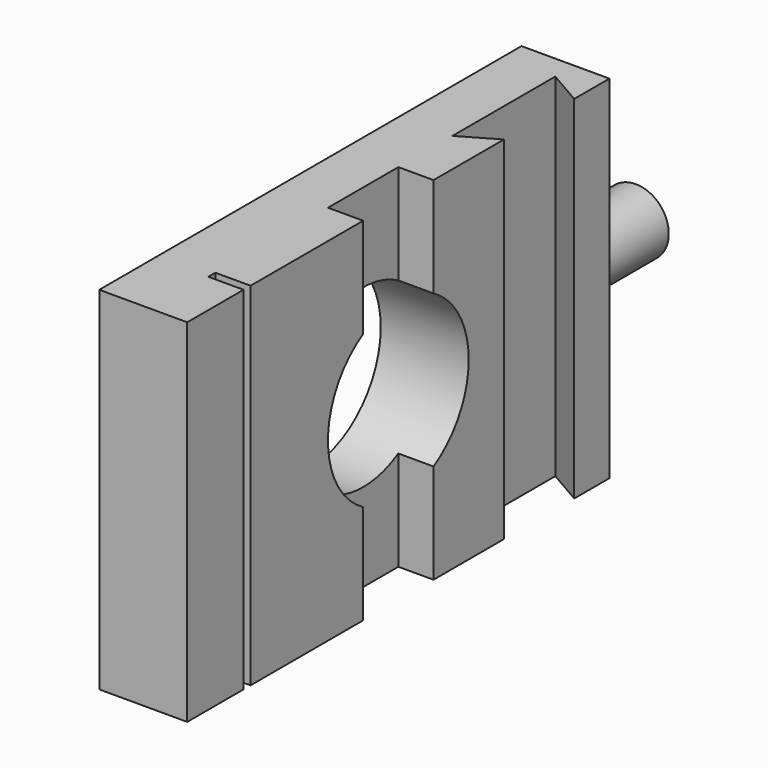
from build123d import *

# Parameters (mm, degrees)
F0_W     = 76.2
F0_H     = 50.8
F0_R     = 12.7
F1_DEPTH = 12.7
F2_W     = 1.27
F2_H     = 50.8
F3_DEPTH = 5.08
F5_DEPTH = 50.801
F6_R     = 4.7625
F7_DEPTH = 12.7


with BuildPart() as f1:
    # F0 (on Right) → F1 (new body)
    with BuildSketch(Plane.YZ):
        with Locations((36.5860867262, -18.7051647067)):
            Rectangle(F0_W, F0_H)
        with Locations((36.5860867262, -18.7051647067)):
            Circle(F0_R, mode=Mode.SUBTRACT)
    extrude(amount=F1_DEPTH)

    # F2 (on face) → F3 (cut)
    with BuildSketch(Plane.YZ.offset(12.7)):
        with Locations((9.2810867262, -18.7051647067)):
            Rectangle(F2_W, F2_H)
        with BuildLine():
            Line((42.9360867262, 6.6948352933), (30.2360867262, 6.6948352933))
            Line((30.2360867262, 6.6948352933), (30.2360867262, -7.7066420786))
            ThreePointArc((30.2360867262, -7.7066420786), (36.5860867262, -6.0051647067), (42.9360867262, -7.7066420786))
            Line((42.9360867262, -7.7066420786), (42.9360867262, 6.6948352933))
        make_face()
        with BuildLine():
            Line((30.2360867262, -29.7036873348), (30.2360867262, -44.1051647067))
            Line((30.2360867262, -44.1051647067), (42.9360867262, -44.1051647067))
            Line((42.9360867262, -44.1051647067), (42.9360867262, -29.7036873348))
            ThreePointArc((42.9360867262, -29.7036873348), (36.5860867262, -31.4051647067), (30.2360867262, -29.7036873348))
        make_face()
    extrude(amount=-F3_DEPTH, mode=Mode.SUBTRACT)

    # F4 (on face) → F5 (cut, through all)
    with BuildSketch(Plane(origin=(0, 0, -44.1051647067), x_dir=(1, 0, 0), z_dir=(0, 0, -1))):
        Polygon((12.7, -68.3360867262), (12.7, -55.6360867262), (7.62, -52.7031473587), (7.62, -71.2690260937), align=None)
    extrude(amount=-F5_DEPTH, mode=Mode.SUBTRACT)

    # F6 (on face) → F7 (join)
    with BuildSketch(Plane(origin=(0, 74.6860867262, 0), x_dir=(-1, 0, 0), z_dir=(0, 1, 0))):
        with Locations((-6.35, -18.7051647067)):
            Circle(F6_R)
    extrude(amount=F7_DEPTH)


solid = f1.part
